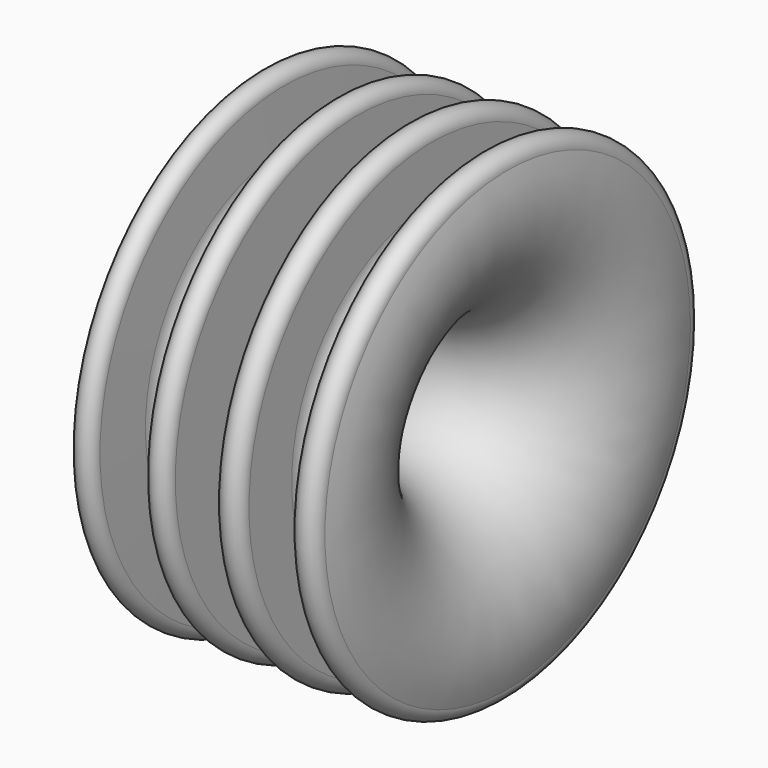
from build123d import *


with BuildPart() as f1:
    # F0 (on Top) → F1 (revolve)
    with BuildSketch(Plane.XY):
        with BuildLine():
            Line((-8.018196, -4.430552), (-8.11582, 0.144282))
            ThreePointArc((-8.11582, 0.144282), (-9.15188, 1.085038), (-10.035698, 0))
            ThreePointArc((-10.035698, 0), (0.165785, -13.912251), (10.374913, -0.005609))
            ThreePointArc((10.374913, -0.005609), (9.266085, 1.087749), (8.157257, -0.005609))
            Line((8.157257, -0.005609), (8.093541, -4.54067))
            ThreePointArc((8.093541, -4.54067), (6.030869, -6.412251), (4.093541, -4.411203))
            Line((4.093541, -4.411203), (4.093541, 0))
            ThreePointArc((4.093541, 0), (3.005792, 1.087749), (1.918042, 0))
            Line((1.918042, 0), (1.997934, -9.30704))
            ThreePointArc((1.997934, -9.30704), (0.051232, -11.411577), (-2.002066, -9.410902))
            Line((-2.002066, -9.410902), (-2.002066, 0))
            ThreePointArc((-2.002066, 0), (-2.989766, 0.9877), (-3.977466, 0))
            Line((-3.977466, 0), (-4.018196, -4.430552))
            ThreePointArc((-4.018196, -4.430552), (-6.018196, -6.412251), (-8.018196, -4.430552))
        make_face()
    revolve(axis=Axis((2.030838, -18.912251, 0), (1, 0, 0)))


solid = f1.part
